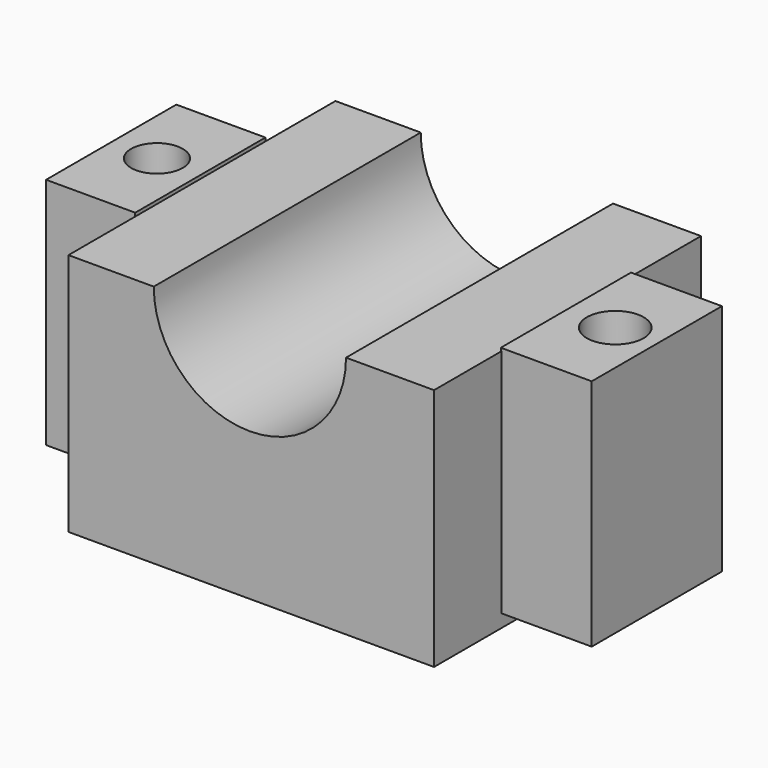
from build123d import *

# Parameters (mm, degrees)
F1_DEPTH = 50.8
F2_W     = 27.685125
F2_H     = 49.556367
F2_W_2   = 27.13142
F3_DEPTH = 35.56
F4_R     = 7.874517
F4_R_2   = 8.645014
F5_DEPTH = 50.8


with BuildPart() as f1:
    # F0 (on Front) → F1 (new body, symmetric)
    with BuildSketch(Plane.XZ):
        with BuildLine():
            Line((-29.268097, 34.740344), (-55.231817, 34.740344))
            Line((-55.231817, 34.740344), (-55.231817, -39.455783))
            Line((-55.231817, -39.455783), (56.062367, -39.455783))
            Line((56.062367, -39.455783), (56.062367, 34.740344))
            Line((56.062367, 34.740344), (29.268097, 34.740344))
            ThreePointArc((29.268097, 34.740344), (0, 5.472246), (-29.268097, 34.740344))
        make_face()
    extrude(amount=F1_DEPTH, both=True)

    # F2 (on Top) → F3 (join, symmetric)
    with BuildSketch(Plane.XY):
        with Locations((69.62808, -0.281334)):
            Rectangle(F2_W, F2_H)
        with Locations((-69.074379, -0.281334)):
            Rectangle(F2_W_2, F2_H)
    extrude(amount=F3_DEPTH, both=True)

    # F4 (on Top) → F5 (cut, symmetric)
    with BuildSketch(Plane.XY):
        with Locations((-68.935953, 0)):
            Circle(F4_R)
        with Locations((70.59706, 0)):
            Circle(F4_R_2)
    extrude(amount=F5_DEPTH, both=True, mode=Mode.SUBTRACT)


solid = f1.part
